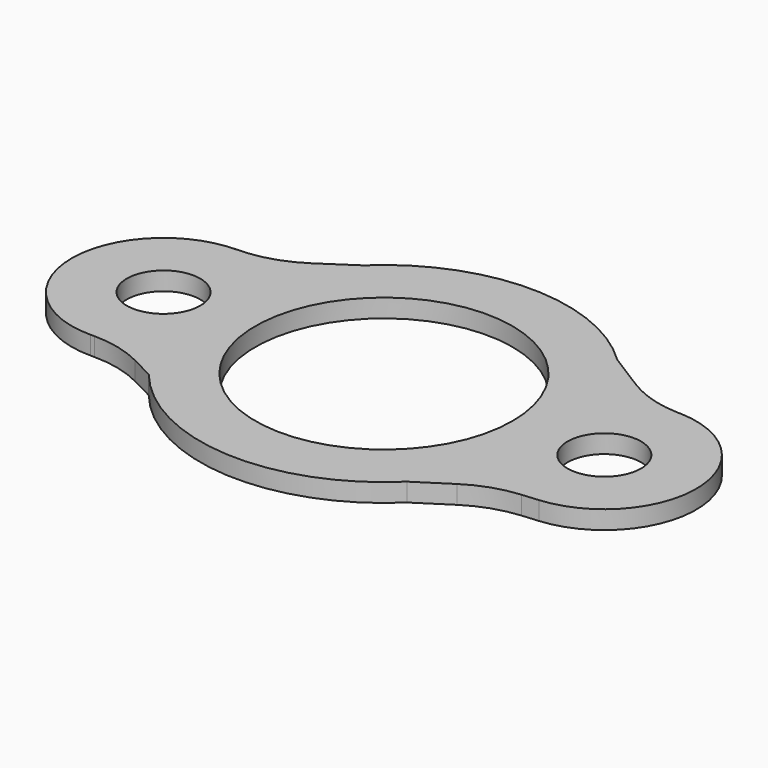
from build123d import *

# Parameters (mm, degrees)
F0_R     = 12.7
F0_R_2   = 44.45
F1_DEPTH = 6.35


with BuildPart() as f1:
    # F0 (on Top) → F1 (new body)
    with BuildSketch(Plane.XY):
        with BuildLine():
            Line((-57.347296, -35.92734), (-49.271736, -40.056785))
            ThreePointArc((-49.271736, -40.056785), (-3.670505, -63.393828), (44.319401, -45.475716))
            Line((44.319401, -45.475716), (55.738272, -38.090021))
            ThreePointArc((55.738272, -38.090021), (64.106409, -34.029649), (73.209015, -32.117876))
            Line((73.209015, -32.117876), (78.884361, -31.636319))
            ThreePointArc((78.884361, -31.636319), (107.943443, 0.645256), (77.596517, 31.719272))
            Line((77.596517, 31.719272), (77.310823, 31.719272))
            ThreePointArc((77.310823, 31.719272), (76.572421, 31.726428), (75.834296, 31.747894))
            ThreePointArc((75.834296, 31.747894), (66.028514, 33.428072), (56.992004, 37.589541))
            Line((56.992004, 37.589541), (44.014023, 45.771343))
            ThreePointArc((44.014023, 45.771343), (0.10166, 63.499919), (-43.867242, 45.912036))
            Line((-43.867242, 45.912036), (-55.496865, 38.163221))
            ThreePointArc((-55.496865, 38.163221), (-65.923736, 33.302805), (-77.326049, 31.776194))
            Line((-77.326049, 31.776194), (-75.614033, 31.744592))
            ThreePointArc((-75.614033, 31.744592), (-107.94928, 0.213871), (-76.041745, -31.749606))
            Line((-76.041745, -31.749606), (-74.693475, -31.749606))
            ThreePointArc((-74.693475, -31.749606), (-65.772385, -32.808761), (-57.347296, -35.92734))
        make_face()
        with Locations((-76.2, 0)):
            Circle(F0_R, mode=Mode.SUBTRACT)
        Circle(F0_R_2, mode=Mode.SUBTRACT)
        with Locations((76.2, 0)):
            Circle(F0_R, mode=Mode.SUBTRACT)
    extrude(amount=F1_DEPTH)


solid = f1.part
